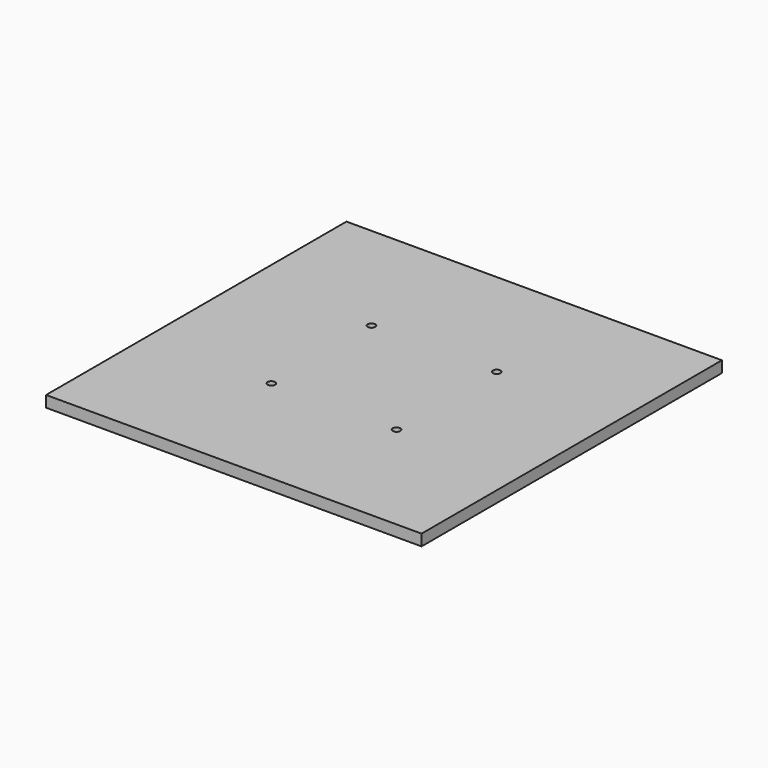
from build123d import *

# Parameters (mm, degrees)
F0_W     = 300
F0_H     = 300
F1_DEPTH = 9
F2_R     = 3
F3_DEPTH = 9.001
F4_R     = 6
F4_R_2   = 3
F5_DEPTH = 5


with BuildPart() as f1:
    # F0 (on Top) → F1 (new body)
    with BuildSketch(Plane.XY):
        with Locations((0.934564, -27.650428)):
            Rectangle(F0_W, F0_H)
    extrude(amount=F1_DEPTH)

    # F2 (on face) → F3 (cut, through all)
    with BuildSketch(Plane.XY.offset(9)):
        with Locations((-49.065436, 22.349572)):
            Circle(F2_R)
        with Locations((-49.065436, -77.650428)):
            Circle(F2_R)
        with Locations((50.934564, -77.650428)):
            Circle(F2_R)
        with Locations((50.934564, 22.349572)):
            Circle(F2_R)
    extrude(amount=-F3_DEPTH, mode=Mode.SUBTRACT)

    # F4 (on face) → F5 (cut)
    with BuildSketch(Plane(origin=(0, 0, 0), x_dir=(1, 0, 0), z_dir=(0, 0, -1))):
        with Locations((-49.065436, 77.650428)):
            Circle(F4_R)
        with Locations((-49.065436, 77.650428)):
            Circle(F4_R_2, mode=Mode.SUBTRACT)
        with Locations((50.934564, 77.650428)):
            Circle(F4_R)
        with Locations((50.934564, 77.650428)):
            Circle(F4_R_2, mode=Mode.SUBTRACT)
        with Locations((-49.065436, -22.349572)):
            Circle(F4_R)
        with Locations((-49.065436, -22.349572)):
            Circle(F4_R_2, mode=Mode.SUBTRACT)
        with Locations((50.934564, -22.349572)):
            Circle(F4_R)
        with Locations((50.934564, -22.349572)):
            Circle(F4_R_2, mode=Mode.SUBTRACT)
    extrude(amount=-F5_DEPTH, mode=Mode.SUBTRACT)


solid = f1.part
